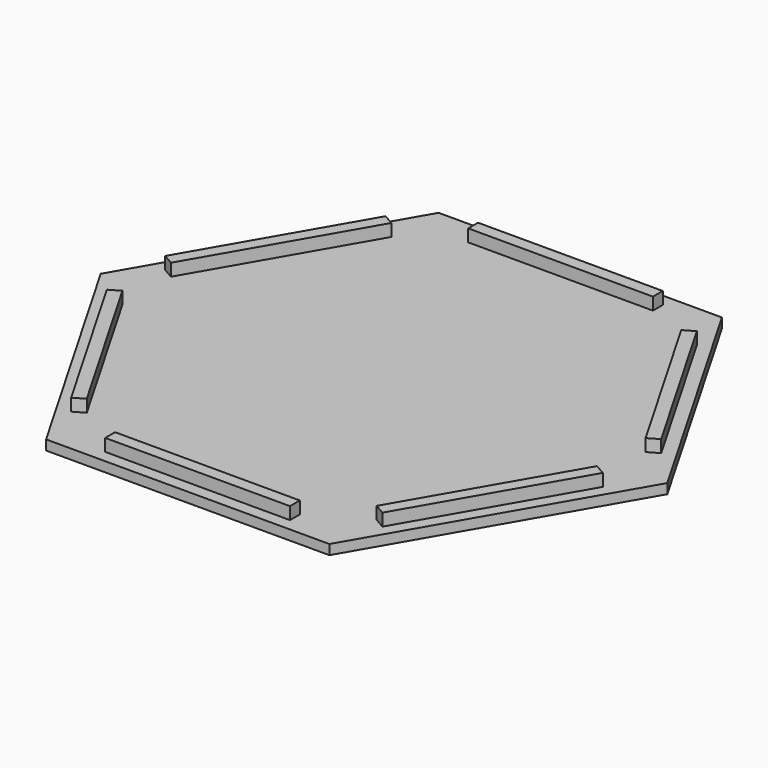
from build123d import *

# Parameters (mm, degrees)
F1_DEPTH = 8
F2_W     = 150
F2_H     = 10
F3_DEPTH = 10
F5_COUNT = 6
F5_ANGLE = 300


with BuildPart() as f1:
    # F0 (on Top) → F1 (new body)
    with BuildSketch(Plane.XY):
        Polygon((-115, -199.185843), (115, -199.185843), (230, 0), (115, 199.185843), (-115, 199.185843), (-230, 0), align=None)
    extrude(amount=F1_DEPTH)


with BuildPart() as f3:
    # F2 (on face) → F3 (new body)
    with BuildSketch(Plane.XY.offset(8)):
        with Locations((0, 184.185843)):
            Rectangle(F2_W, F2_H)
    extrude(amount=F3_DEPTH)


with BuildPart() as f5_1:
    # F5: instance of F3
    add(f3.part.rotate(Axis((0, 0, 59.494589), (0, 0, 1)), 1 * F5_ANGLE / (F5_COUNT - 1)))


with BuildPart() as f5_2:
    # F5: instance of F3
    add(f3.part.rotate(Axis((0, 0, 59.494589), (0, 0, 1)), 2 * F5_ANGLE / (F5_COUNT - 1)))


with BuildPart() as f5_3:
    # F5: instance of F3
    add(f3.part.rotate(Axis((0, 0, 59.494589), (0, 0, 1)), 3 * F5_ANGLE / (F5_COUNT - 1)))


with BuildPart() as f5_4:
    # F5: instance of F3
    add(f3.part.rotate(Axis((0, 0, 59.494589), (0, 0, 1)), 4 * F5_ANGLE / (F5_COUNT - 1)))


with BuildPart() as f5_5:
    # F5: instance of F3
    add(f3.part.rotate(Axis((0, 0, 59.494589), (0, 0, 1)), 5 * F5_ANGLE / (F5_COUNT - 1)))


solid = Compound([f1.part, f3.part, f5_1.part, f5_2.part, f5_3.part, f5_4.part, f5_5.part])
